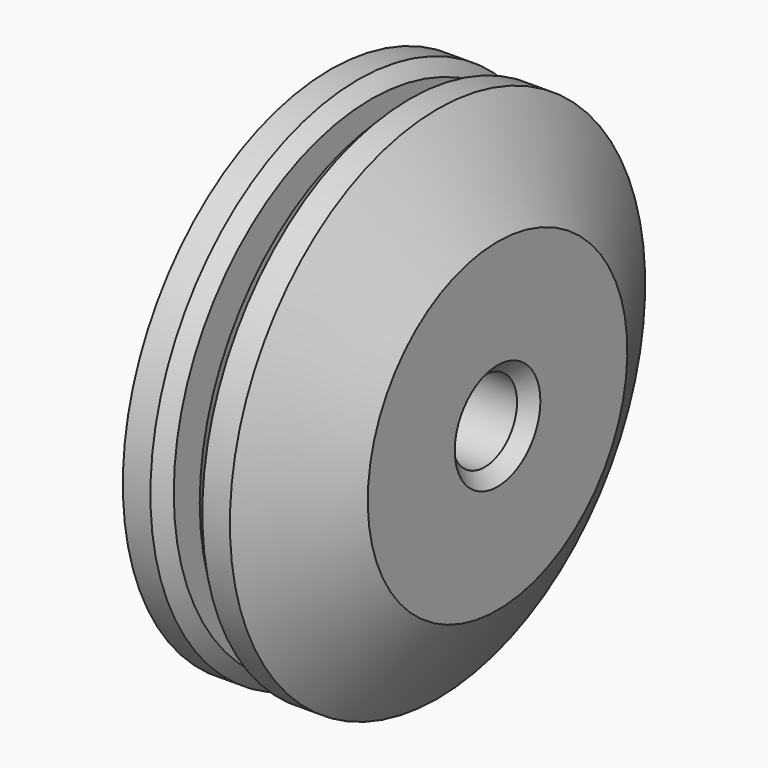
from build123d import *

# Parameters (mm, degrees)
F2_R     = 1.5875
F3_DEPTH = 8.891
F4_SIZE  = 0.508
F5_SIZE  = 0.508


with BuildPart() as f1:
    # F0 (on Front) → F1 (revolve)
    with BuildSketch(Plane.XZ):
        Polygon((0.508, 6.35), (0, 6.35), (-0.508, 6.35), (-0.508, 10.16), (-2.0955, 10.16), (-4.445, 6.35), (-4.445, 0), (4.445, 0), (4.445, 6.35), (2.0955, 10.16), (0.508, 10.16), align=None)
    revolve(axis=Axis((0, 0, 0), (-1, 0, 0)))

    # F2 (on face) → F3 (cut, through all)
    with BuildSketch(Plane.YZ.offset(4.445)):
        Circle(F2_R)
    extrude(amount=-F3_DEPTH, mode=Mode.SUBTRACT)

    # F4
    f4_edges = [f1.edges().sort_by_distance(p)[0] for p in [
        (-4.445, -1.5875, 0),
        (4.445, -1.5875, 0),
    ]]
    chamfer(f4_edges, length=F4_SIZE)

    # F5
    f5_edges = [f1.edges().sort_by_distance(p)[0] for p in [
        (-0.508, 0, -10.16),
        (0.508, 0, -10.16),
    ]]
    chamfer(f5_edges, length=F5_SIZE)


solid = f1.part
